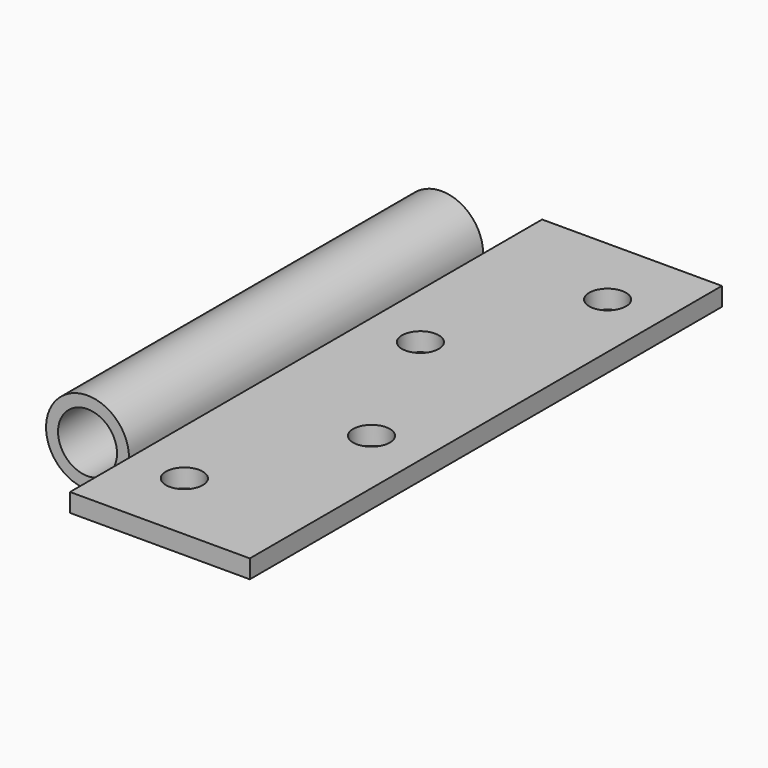
from build123d import *

# Parameters (mm, degrees)
F0_R     = 5.08
F1_DEPTH = 50.8
F2_W     = 14.402608
F2_H     = 12.7
F2_H_2   = 12.700002
F3_DEPTH = 12.7
F5_D     = 6.35


with BuildPart() as f1:
    # F0 (on Front) → F1 (new body, symmetric)
    with BuildSketch(Plane.XZ):
        with BuildLine():
            ThreePointArc((6.399417, 0), (6.955178, 1.544459), (7.14375, 3.175))
            ThreePointArc((7.14375, 3.175), (-6.955178, 4.805541), (6.399417, 0))
        make_face()
        with Locations((0, 3.175)):
            Circle(F0_R, mode=Mode.SUBTRACT)
        with BuildLine():
            Line((38.1, 3.175), (7.14375, 3.175))
            ThreePointArc((7.14375, 3.175), (6.955178, 1.544459), (6.399417, 0))
            Line((6.399417, 0), (38.1, 0))
            Line((38.1, 0), (38.1, 3.175))
        make_face()
    extrude(amount=F1_DEPTH, both=True)

    # F2 (on Top) → F3 (cut, symmetric)
    with BuildSketch(Plane.XY):
        with Locations((-0.057554, 44.45)):
            Rectangle(F2_W, F2_H)
        with Locations((-0.057554, -44.449999)):
            Rectangle(F2_W, F2_H_2)
    extrude(amount=F3_DEPTH, both=True, mode=Mode.SUBTRACT)

    # F5 (through all)
    with Locations(Plane.XY.offset(3.175)):
        with Locations((28.575, 38.1), (16.66875, 12.7), (28.575, -12.7), (16.66875, -38.1)):
            Hole(F5_D / 2)


solid = f1.part
